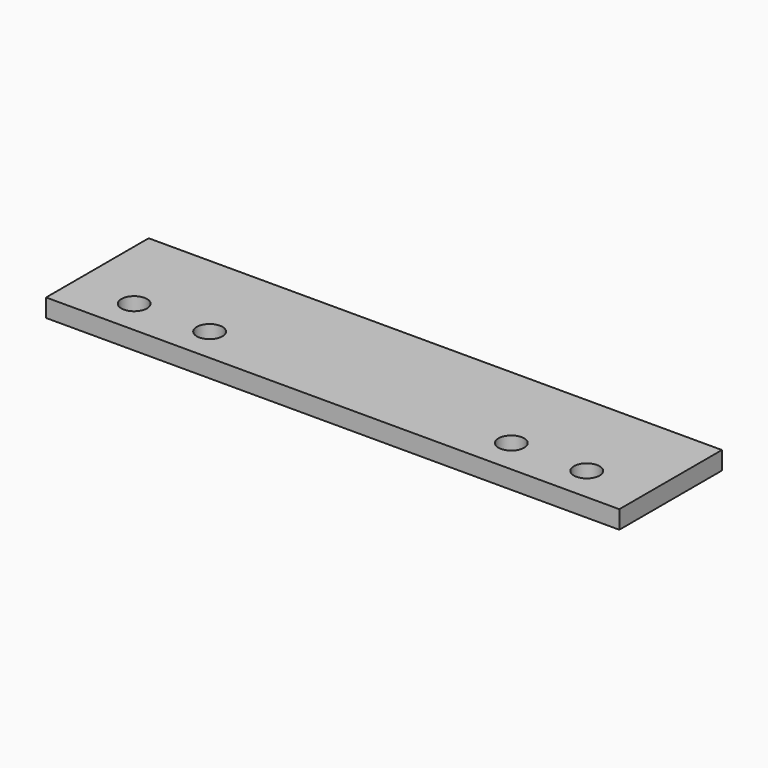
from build123d import *

# Parameters (mm, degrees)
F0_W     = 190
F0_H     = 85
F0_R     = 8.5
F1_DEPTH = 12


with BuildPart() as f1:
    # F0 (on Top) → F1 (new body)
    with BuildSketch(Plane.XY):
        with Locations((95, 42.5)):
            Rectangle(F0_W, F0_H)
        with Locations((40, 23)):
            Circle(F0_R, mode=Mode.SUBTRACT)
        with Locations((90, 23)):
            Circle(F0_R, mode=Mode.SUBTRACT)
        with Locations((285, 42.5)):
            Rectangle(F0_W, F0_H)
        with Locations((290, 23)):
            Circle(F0_R, mode=Mode.SUBTRACT)
        with Locations((340, 23)):
            Circle(F0_R, mode=Mode.SUBTRACT)
    extrude(amount=F1_DEPTH)


solid = f1.part
